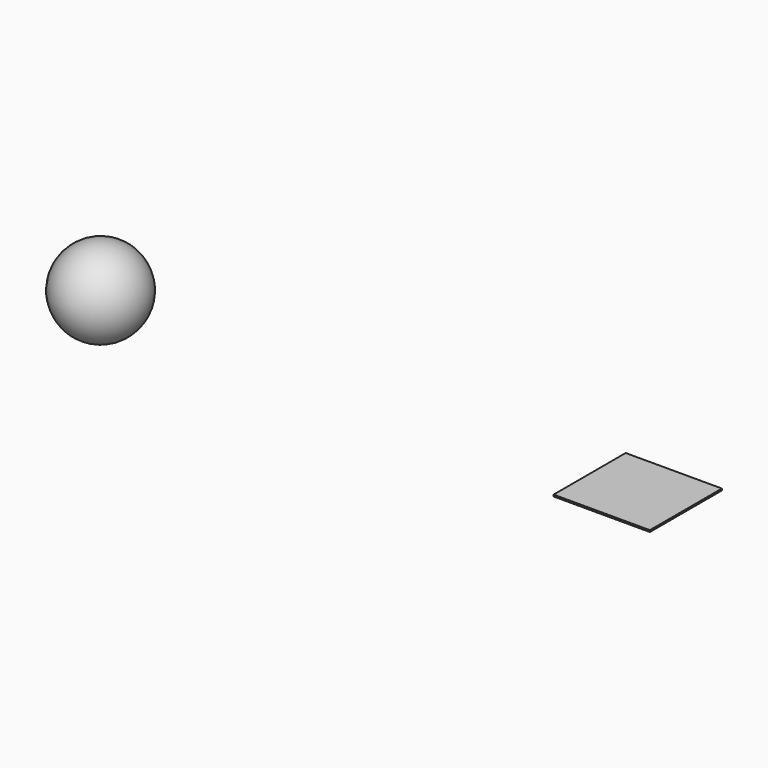
from build123d import *

# Parameters (mm, degrees)
F2_W     = 14.352943
F2_H     = 13.436795
F3_DEPTH = 0.254


with BuildPart() as f1:
    # F0 (on Top) → F1 (revolve)
    with BuildSketch(Plane.XY):
        with BuildLine():
            Line((-102.847788, 32.586164), (-102.847788, 45.286164))
            ThreePointArc((-102.847788, 45.286164), (-109.197788, 38.936164), (-102.847788, 32.586164))
        make_face()
    revolve(axis=Axis((-102.847788, 38.936164, 0), (0, -1, 0)))


with BuildPart() as f3:
    # F2 (on Top) → F3 (new body)
    with BuildSketch(Plane.XY):
        with Locations((-21.995762, 38.020018)):
            Rectangle(F2_W, F2_H)
    extrude(amount=F3_DEPTH)


solid = Compound([f1.part, f3.part])
